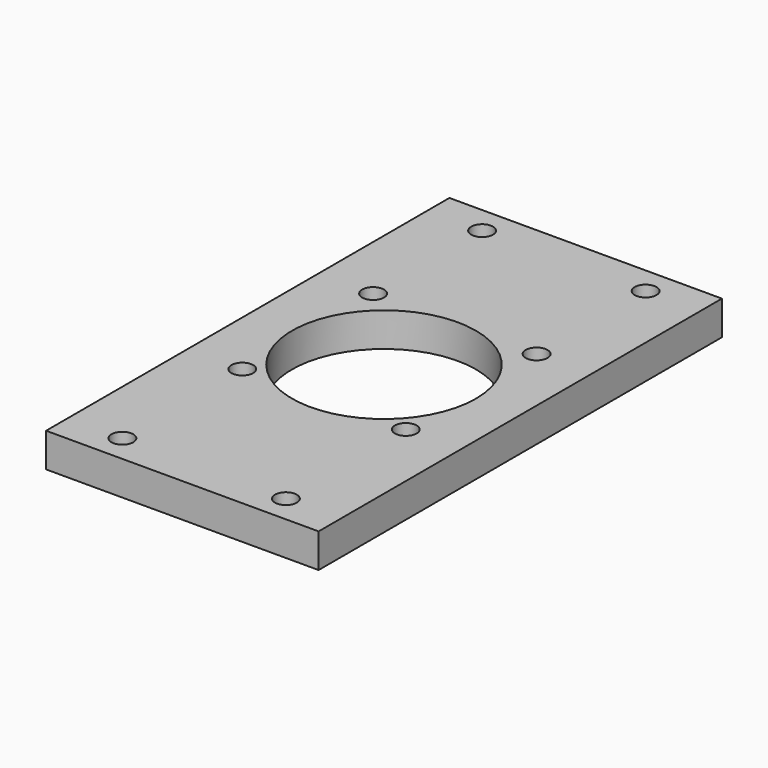
from build123d import *

# Parameters (mm, degrees)
F0_W     = 40
F0_H     = 74
F0_R     = 1.6
F0_R_2   = 13.5
F1_DEPTH = 5


with BuildPart() as f1:
    # F0 (on Top) → F1 (new body)
    with BuildSketch(Plane.XY):
        Rectangle(F0_W, F0_H)
        with Locations((-12, -33)):
            Circle(F0_R, mode=Mode.SUBTRACT)
        with Locations((-12, -11)):
            Circle(F0_R, mode=Mode.SUBTRACT)
        with Locations((12, -33)):
            Circle(F0_R, mode=Mode.SUBTRACT)
        with Locations((12, -11)):
            Circle(F0_R, mode=Mode.SUBTRACT)
        with Locations((-12, 13)):
            Circle(F0_R, mode=Mode.SUBTRACT)
        with Locations((-12, 33)):
            Circle(F0_R, mode=Mode.SUBTRACT)
        Circle(F0_R_2, mode=Mode.SUBTRACT)
        with Locations((12, 13)):
            Circle(F0_R, mode=Mode.SUBTRACT)
        with Locations((12, 33)):
            Circle(F0_R, mode=Mode.SUBTRACT)
    extrude(amount=F1_DEPTH)


solid = f1.part
